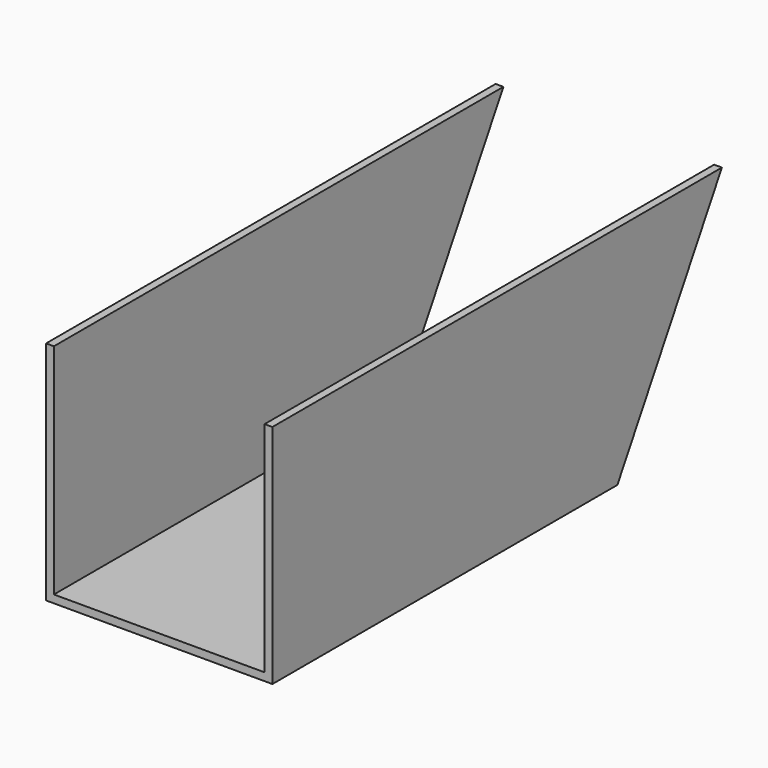
from build123d import *

# Parameters (mm, degrees)
F1_DEPTH = 228.6
F3_DEPTH = 92.076


with BuildPart() as f1:
    # F0 (on Front) → F1 (new body)
    with BuildSketch(Plane.XZ):
        Polygon((-51.535921, 92.075), (-51.535921, 0), (40.539079, 0), (40.539079, 92.075), (37.364079, 92.075), (37.364079, 3.175), (-48.360921, 3.175), (-48.360921, 92.075), align=None)
    extrude(amount=F1_DEPTH)

    # F2 (on face) → F3 (cut, through all)
    with BuildSketch(Plane.YZ.offset(40.539079)):
        Polygon((-53.159526, 0), (0, 0), (0, 92.075), align=None)
    extrude(amount=-F3_DEPTH, mode=Mode.SUBTRACT)


solid = f1.part
